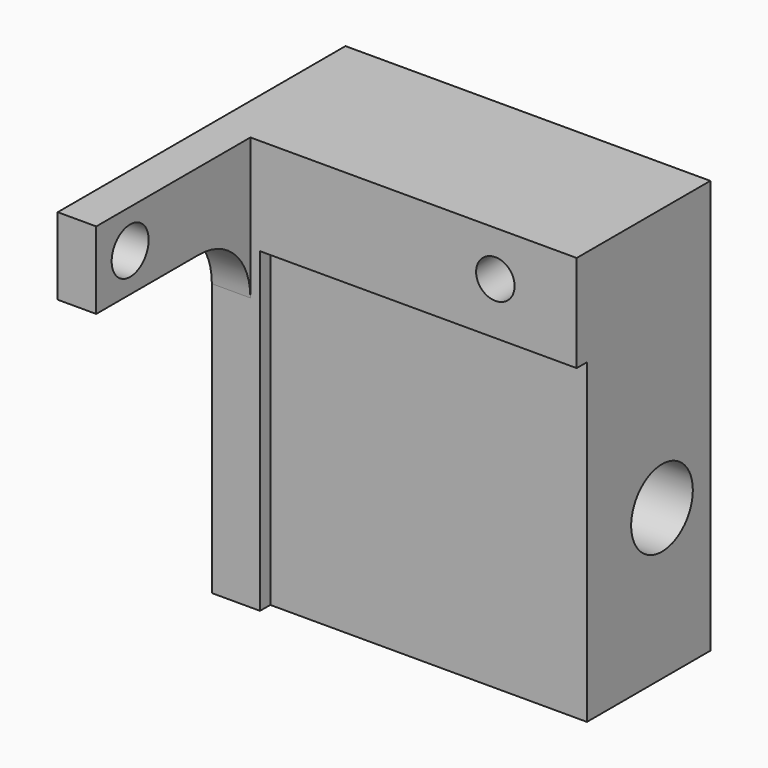
from build123d import *

# Parameters (mm, degrees)
F0_W      = 30.4
F0_H      = 27.4
F1_DEPTH  = 3
F2_W      = 25.9
F2_H      = 25.9
F3_DEPTH  = 1
F4_W      = 3
F4_H      = 41
F5_DEPTH  = 18
F7_DEPTH  = 25
F8_R      = 1.8
F9_DEPTH  = 25
F10_W     = 27.4
F10_H     = 6.8
F11_DEPTH = 3
F12_R     = 1.5
F13_DEPTH = 3.001
F14_W     = 8.9006384343
F14_H     = 16.5555408895
F15_DEPTH = 25
F16_W     = 9.1082898408
F16_H     = 12.178418237
F17_DEPTH = 25
F18_W     = 2
F18_H     = 37.0905021131
F19_DEPTH = 25
F20_W     = 28.4
F20_H     = 34.2
F21_DEPTH = 10
F22_R     = 1.8
F23_DEPTH = 38.7
F24_R     = 3
F25_DEPTH = 25.7
F26_W     = 25.8796279177
F26_H     = 5.8478018075
F27_DEPTH = 1
F28_W     = 61.7600152118
F28_H     = 2
F29_DEPTH = 25


with BuildPart() as f1:
    # F0 (on Front) → F1 (new body)
    with BuildSketch(Plane.XZ):
        Rectangle(F0_W, F0_H)
    extrude(amount=F1_DEPTH)

    # F2 (on face) → F3 (cut)
    with BuildSketch(Plane.XZ.offset(3)):
        with Locations((1.5, 0)):
            Rectangle(F2_W, F2_H)
    extrude(amount=-F3_DEPTH, mode=Mode.SUBTRACT)

    # F4 (on face) → F5 (join)
    with BuildSketch(Plane(origin=(0, 0, 0), x_dir=(-1, 0, 0), z_dir=(0, 1, 0))):
        with Locations((13.7, 0)):
            Rectangle(F4_W, F4_H)
    extrude(amount=-F5_DEPTH)

    # F6 (on face) → F7 (cut)
    with BuildSketch(Plane.YZ.offset(-12.2)):
        with BuildLine():
            Line((-18, 14.5), (-18, -14.5))
            Line((-18, -14.5), (-8, -14.5))
            ThreePointArc((-8, -14.5), (-4.4644660941, -13.0355339059), (-3, -9.5))
            Line((-3, -9.5), (-3, 9.5))
            ThreePointArc((-3, 9.5), (-4.4644660941, 13.0355339059), (-8, 14.5))
            Line((-8, 14.5), (-18, 14.5))
        make_face()
    extrude(amount=-F7_DEPTH, mode=Mode.SUBTRACT)

    # F8 (on face) → F9 (cut)
    with BuildSketch(Plane.YZ.offset(-12.2)):
        with Locations((-14.7, -17.5)):
            Circle(F8_R)
        with Locations((-14.7, 17.5)):
            Circle(F8_R)
    extrude(amount=-F9_DEPTH, mode=Mode.SUBTRACT)

    # F10 (on Front) → F11 (join)
    with BuildSketch(Plane.XZ):
        with Locations((1.5, 17.1)):
            Rectangle(F10_W, F10_H)
    extrude(amount=F11_DEPTH)

    # F12 (on face) → F13 (cut, through all)
    with BuildSketch(Plane.XZ.offset(3)):
        with Locations((6.8696663434, 17)):
            Circle(F12_R)
    extrude(amount=-F13_DEPTH, mode=Mode.SUBTRACT)

    # F14 (on face) → F15 (cut)
    with BuildSketch(Plane.XZ.offset(3)):
        with Locations((-16.6503192171, -17.7777704448)):
            Rectangle(F14_W, F14_H)
    extrude(amount=F15_DEPTH, mode=Mode.SUBTRACT)

    # F16 (on face) → F17 (cut)
    with BuildSketch(Plane.XZ.offset(3)):
        with Locations((-16.7541449204, -19.7892091185)):
            Rectangle(F16_W, F16_H)
    extrude(amount=-F17_DEPTH, mode=Mode.SUBTRACT)

    # F18 (on face) → F19 (cut)
    with BuildSketch(Plane.XZ.offset(3)):
        with Locations((14.2, 1.9547489434)):
            Rectangle(F18_W, F18_H)
    extrude(amount=-F19_DEPTH, mode=Mode.SUBTRACT)

    # F20 (on face) → F21 (join)
    with BuildSketch(Plane(origin=(0, 0, 0), x_dir=(-1, 0, 0), z_dir=(0, 1, 0))):
        with Locations((1, 3.4)):
            Rectangle(F20_W, F20_H)
    extrude(amount=F21_DEPTH)

    # F22 (on face) → F23 (cut)
    with BuildSketch(Plane.YZ.offset(13.2)):
        with Locations((5.3, 0)):
            Circle(F22_R)
    extrude(amount=-F23_DEPTH, mode=Mode.SUBTRACT)

    # F24 (on face) → F25 (cut)
    with BuildSketch(Plane.YZ.offset(13.2)):
        with Locations((5.3, 0)):
            Circle(F24_R)
    extrude(amount=-F25_DEPTH, mode=Mode.SUBTRACT)

    # F26 (on face) → F27 (cut)
    with BuildSketch(Plane.XZ.offset(3)):
        with Locations((1.4898139589, -15.8739009038)):
            Rectangle(F26_W, F26_H)
    extrude(amount=-F27_DEPTH, mode=Mode.SUBTRACT)

    # F28 (on face) → F29 (cut)
    with BuildSketch(Plane.XZ.offset(3)):
        with Locations((15.6800076059, -12.7)):
            Rectangle(F28_W, F28_H)
    extrude(amount=-F29_DEPTH, mode=Mode.SUBTRACT)


solid = f1.part
